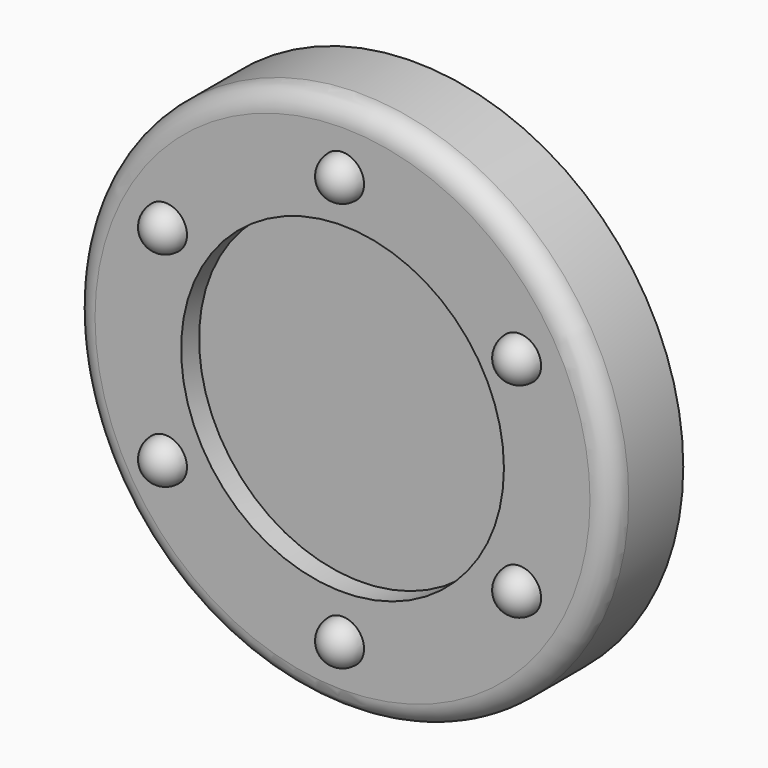
from build123d import *

# Parameters (mm, degrees)
F0_R     = 38.1
F0_R_2   = 22.86
F1_DEPTH = 12.7
F2_R     = 3.048
F3_DEPTH = 9.525


with BuildPart() as f1:
    # F0 (on Front) → F1 (new body)
    with BuildSketch(Plane.XZ):
        Circle(F0_R)
        Circle(F0_R_2, mode=Mode.SUBTRACT)
    extrude(amount=F1_DEPTH)

    # F2
    f2_edges = [f1.edges().sort_by_distance(p)[0] for p in [
        (-38.1, -12.7, 0),
    ]]
    fillet(f2_edges, radius=F2_R)

    # F0 (on Front) → F3 (join)
    with BuildSketch(Plane.XZ):
        Circle(F0_R_2)
    extrude(amount=F3_DEPTH)

    # F4 (on face) → F5 (revolve)
    with BuildSketch(Plane.XZ.offset(12.7)):
        with BuildLine():
            Line((-25.076632, 11.43), (-25.076632, 17.526))
            ThreePointArc((-25.076632, 17.526), (-28.124632, 14.478), (-25.076632, 11.43))
        make_face()
        with BuildLine():
            Line((-25.076632, -17.526), (-25.076632, -11.43))
            ThreePointArc((-25.076632, -11.43), (-28.124632, -14.478), (-25.076632, -17.526))
        make_face()
    revolve(axis=Axis((-25.076632, -12.7, -0.637533), (0, 0, -1)))

    # F4 (on face) → F6 (revolve)
    with BuildSketch(Plane.XZ.offset(12.7)):
        with BuildLine():
            Line((0, 25.908), (0, 32.004))
            ThreePointArc((0, 32.004), (-3.048, 28.956), (0, 25.908))
        make_face()
        with BuildLine():
            Line((0, -32.004), (0, -25.908))
            ThreePointArc((0, -25.908), (-3.048, -28.956), (0, -32.004))
        make_face()
    revolve(axis=Axis((0, -12.7, 0.300789), (0, 0, -1)))

    # F4 (on face) → F7 (revolve)
    with BuildSketch(Plane.XZ.offset(12.7)):
        with BuildLine():
            Line((25.076632, 11.43), (25.076632, 17.526))
            ThreePointArc((25.076632, 17.526), (22.028632, 14.478), (25.076632, 11.43))
        make_face()
        with BuildLine():
            Line((25.076632, -17.526), (25.076632, -11.43))
            ThreePointArc((25.076632, -11.43), (22.028632, -14.478), (25.076632, -17.526))
        make_face()
    revolve(axis=Axis((25.076632, -12.7, 0.300787), (0, 0, -1)))


solid = f1.part
